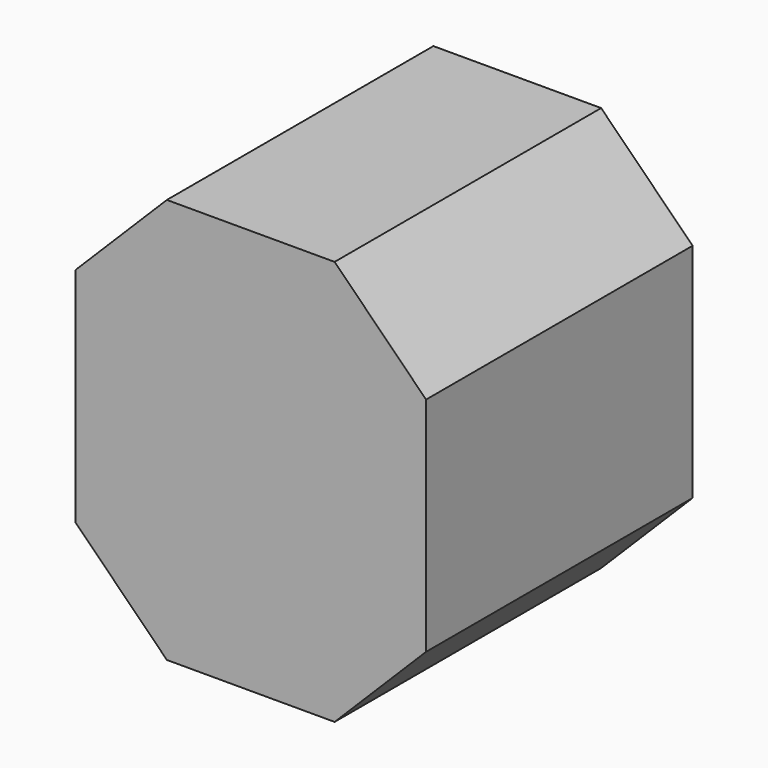
from build123d import *

# Parameters (mm, degrees)
BOX_W            = 4
BOX_H            = 4
BOX_DEPTH        = 10
EXTRUDE003_DEPTH = 6


with BuildPart() as box:
    # Box → Box (new body)
    with BuildSketch(Plane(origin=(-2, 2.8, 0), x_dir=(1, 0, 0), z_dir=(0, 0, 1))):
        with Locations((2, 2)):
            Rectangle(BOX_W, BOX_H)
    extrude(amount=BOX_DEPTH)


with BuildPart() as obj1:
    # Sketch002 → Extrude003 (new body)
    with BuildSketch(Plane.XZ):
        Polygon((2.309699, 1.35299), (2.309699, 3.266407), (0.956709, 4.619398), (-0.956709, 4.619398), (-2.309699, 3.266407), (-2.309699, 1.35299), (-0.956709, 0), (0.956709, 0), align=None)
    extrude(amount=-EXTRUDE003_DEPTH)


with BuildPart() as obj1_1:
    # Extrude003 placement: moved
    add(obj1.part.moved(Location((0, 3, 0))))

    # Common: intersect Box
    add(box.part, mode=Mode.INTERSECT)


solid = obj1_1.part
